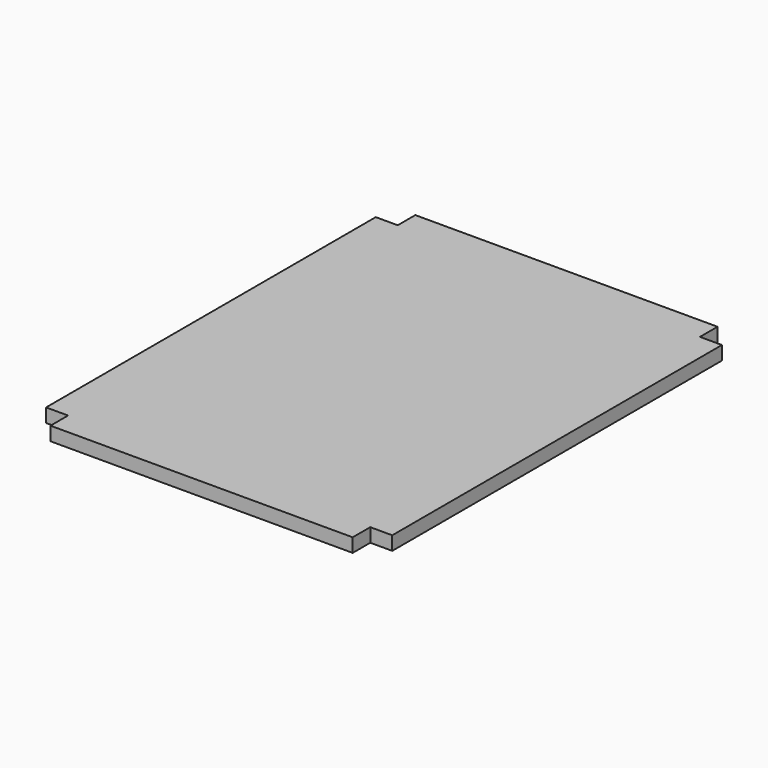
from build123d import *

# Parameters (mm, degrees)
F0_W      = 630
F0_H      = 830
F1_DEPTH  = 25
F2_W      = 40
F2_H      = 40
F3_DEPTH  = 25
F4_W      = 40
F4_H      = 40
F5_DEPTH  = 25
F6_W      = 40
F6_H      = 40
F7_DEPTH  = 25
F8_W      = 40
F8_H      = 40
F9_DEPTH  = 25
F10_R     = 3
F11_DEPTH = 25


with BuildPart() as f1:
    # F0 (on Top) → F1 (new body)
    with BuildSketch(Plane.XY):
        with Locations((315, 415)):
            Rectangle(F0_W, F0_H)
    extrude(amount=F1_DEPTH)

    # F2 (on face) → F3 (cut)
    with BuildSketch(Plane.XY.offset(25)):
        with Locations((610, 20)):
            Rectangle(F2_W, F2_H)
    extrude(amount=-F3_DEPTH, mode=Mode.SUBTRACT)

    # F4 (on face) → F5 (cut)
    with BuildSketch(Plane.XY.offset(25)):
        with Locations((20, 20)):
            Rectangle(F4_W, F4_H)
    extrude(amount=-F5_DEPTH, mode=Mode.SUBTRACT)

    # F6 (on face) → F7 (cut)
    with BuildSketch(Plane(origin=(0, 0, 0), x_dir=(1, 0, 0), z_dir=(0, 0, -1))):
        with Locations((20, -810)):
            Rectangle(F6_W, F6_H)
    extrude(amount=-F7_DEPTH, mode=Mode.SUBTRACT)

    # F8 (on face) → F9 (cut)
    with BuildSketch(Plane(origin=(0, 0, 0), x_dir=(1, 0, 0), z_dir=(0, 0, -1))):
        with Locations((610, -810)):
            Rectangle(F8_W, F8_H)
    extrude(amount=-F9_DEPTH, mode=Mode.SUBTRACT)

    # F10 (on face) → F11 (cut)
    with BuildSketch(Plane(origin=(40, 0, 0), x_dir=(0, -1, 0), z_dir=(-1, 0, 0))):
        with Locations((-20, 12.5)):
            Circle(F10_R)
    extrude(amount=-F11_DEPTH, mode=Mode.SUBTRACT)


solid = f1.part
